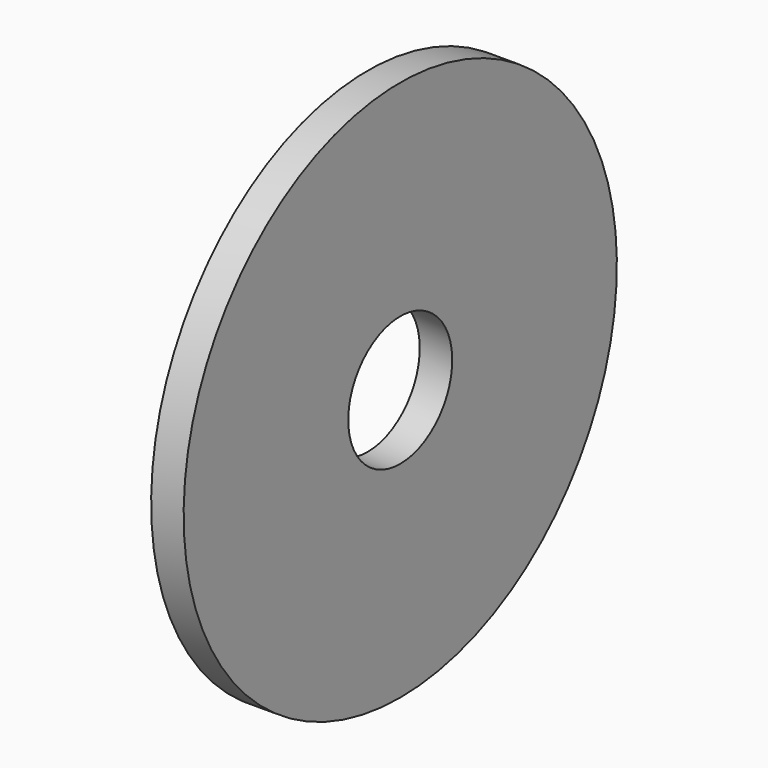
from build123d import *

# Parameters (mm, degrees)
CYLINDER007_R           = 6
CYLINDER007_DEPTH       = 236
CYLINDER007_PITCH_ANGLE = 90
CYLINDER002_R           = 25
CYLINDER002_DEPTH       = 3
CYLINDER002_PITCH_ANGLE = 90


with BuildPart() as connector_bore:
    # Cylinder007 → Cylinder007 (new body)
    with BuildSketch(Plane.XY):
        Circle(CYLINDER007_R)
    extrude(amount=CYLINDER007_DEPTH)


with BuildPart() as connector_bore_1:
    # Cylinder007 pitch: moved
    add(connector_bore.part.rotate(Axis((0, 0, 0), (0, 1, 0)), CYLINDER007_PITCH_ANGLE))


with BuildPart() as connector_bore_2:
    # Cylinder007 placement: moved
    add(connector_bore_1.part.moved(Location((-45, 0, 0))))


with BuildPart() as cut005:
    # Cylinder002 → Cylinder002 (new body)
    with BuildSketch(Plane.XY):
        Circle(CYLINDER002_R)
    extrude(amount=CYLINDER002_DEPTH)


with BuildPart() as cut005_1:
    # Cylinder002 pitch: moved
    add(cut005.part.rotate(Axis((0, 0, 0), (0, 1, 0)), CYLINDER002_PITCH_ANGLE))


with BuildPart() as cut005_2:
    # Cylinder002 placement: moved
    add(cut005_1.part.moved(Location((150, 0, 0))))

    # Cut005: cut connector_bore
    add(connector_bore_2.part, mode=Mode.SUBTRACT)


solid = cut005_2.part
